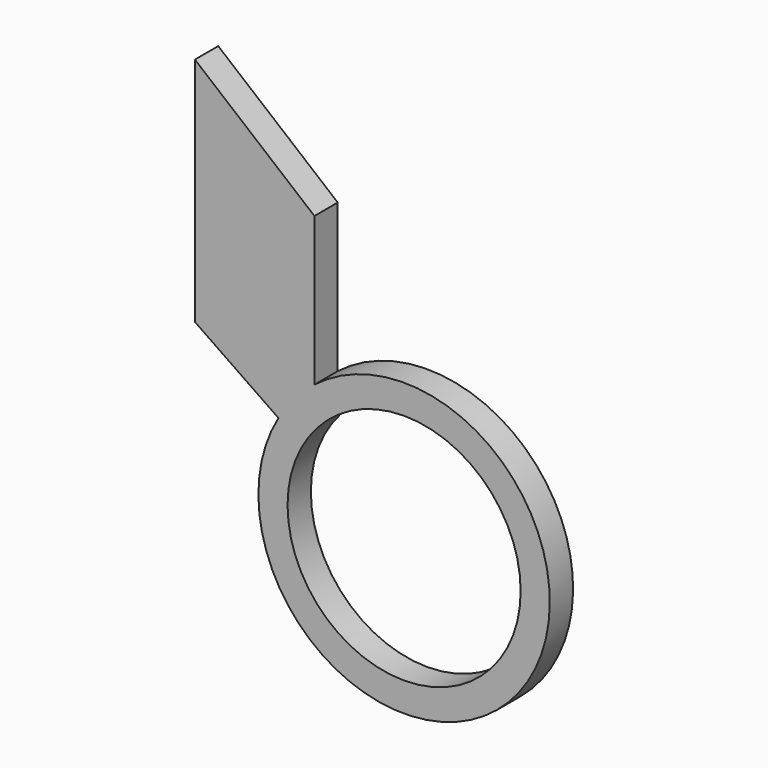
from build123d import *

# Parameters (mm, degrees)
F0_R     = 4
F1_DEPTH = 1


with BuildPart() as f1:
    # F0 (on Front) → F1 (new body)
    with BuildSketch(Plane.XZ):
        with BuildLine():
            Line((-7.178572, 4.5), (-4.31285, 2.529689))
            ThreePointArc((-4.31285, 2.529689), (3.761974, -3.293563), (-3.077627, 3.940585))
            Line((-3.077627, 3.940585), (-3.077627, 9.035675))
            Line((-3.077627, 9.035675), (-7.178572, 12.428572))
            Line((-7.178572, 12.428572), (-7.178572, 4.5))
        make_face()
        Circle(F0_R, mode=Mode.SUBTRACT)
    extrude(amount=F1_DEPTH)


solid = f1.part
